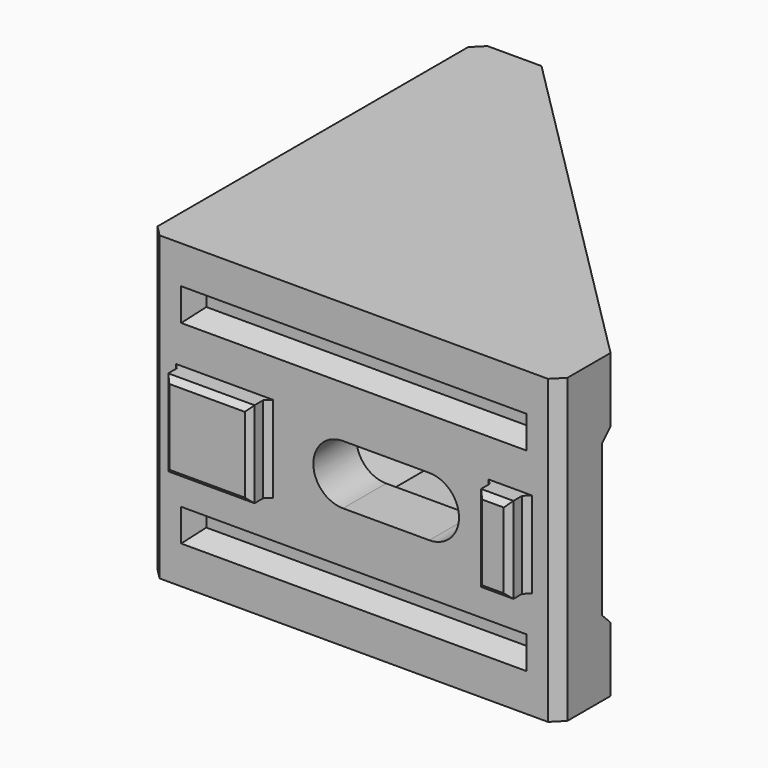
from build123d import *

# Parameters (mm, degrees)
F1_DEPTH  = 28
F2_W      = 33
F2_H      = 22
F3_DEPTH  = 33
F6_DEPTH  = 25
F7_DEPTH  = 25
F4_W      = 8
F4_H      = 8
F4_W_2    = 3
F8_DEPTH  = 2
F5_W      = 32
F5_H      = 3
F9_DEPTH  = 2
F9_TAPER  = 20
F5_W_2    = 3
F5_H_2    = 8
F5_W_3    = 8
F10_DEPTH = 2
F4_W_3    = 32
F4_H_2    = 3
F11_DEPTH = 2
F11_TAPER = 20
F12_SIZE  = 1
F13_SIZE  = 0.5
F14_SIZE  = 4


with BuildPart() as f1:
    # F0 (on Top) → F1 (new body)
    with BuildSketch(Plane.XY):
        Polygon((-19, -19), (19, -19), (19, -13), (-13, 19), (-19, 19), align=None)
    extrude(amount=F1_DEPTH)

    # F2 (on face) → F3 (cut, through all)
    with BuildSketch(Plane.YZ.offset(19)):
        with Locations((2.5, 14)):
            Rectangle(F2_W, F2_H)
    extrude(amount=-F3_DEPTH, mode=Mode.SUBTRACT)

    # F4 (on face) → F6 (cut)
    with BuildSketch(Plane.XZ.offset(19)):
        with BuildLine():
            Line((-1, 11.25), (7, 11.25))
            ThreePointArc((7, 11.25), (9.75, 14), (7, 16.75))
            Line((7, 16.75), (-1, 16.75))
            ThreePointArc((-1, 16.75), (-3.75, 14), (-1, 11.25))
        make_face()
    extrude(amount=-F6_DEPTH, mode=Mode.SUBTRACT)

    # F5 (on face) → F7 (cut)
    with BuildSketch(Plane(origin=(-19, 0, 0), x_dir=(0, -1, 0), z_dir=(-1, 0, 0))):
        with BuildLine():
            Line((-7, 11.25), (1, 11.25))
            ThreePointArc((1, 11.25), (3.75, 14), (1, 16.75))
            Line((1, 16.75), (-7, 16.75))
            ThreePointArc((-7, 16.75), (-9.75, 14), (-7, 11.25))
        make_face()
    extrude(amount=-F7_DEPTH, mode=Mode.SUBTRACT)

    # F4 (on face) → F8 (join)
    with BuildSketch(Plane.XZ.offset(19)):
        with Locations((-12, 14)):
            Rectangle(F4_W, F4_H)
        with Locations((14.5, 14)):
            Rectangle(F4_W_2, F4_H)
    extrude(amount=F8_DEPTH)

    # F5 (on face) → F9 (cut)
    with BuildSketch(Plane(origin=(-19, 0, 0), x_dir=(0, -1, 0), z_dir=(-1, 0, 0))):
        with Locations((0, 23)):
            Rectangle(F5_W, F5_H)
        with Locations((0, 5)):
            Rectangle(F5_W, F5_H)
    extrude(amount=-F9_DEPTH, taper=F9_TAPER, mode=Mode.SUBTRACT)

    # F5 (on face) → F10 (join)
    with BuildSketch(Plane(origin=(-19, 0, 0), x_dir=(0, -1, 0), z_dir=(-1, 0, 0))):
        with Locations((-14.5, 14)):
            Rectangle(F5_W_2, F5_H_2)
        with Locations((12, 14)):
            Rectangle(F5_W_3, F5_H_2)
    extrude(amount=F10_DEPTH)

    # F4 (on face) → F11 (cut)
    with BuildSketch(Plane.XZ.offset(19)):
        with Locations((0, 23)):
            Rectangle(F4_W_3, F4_H_2)
        with Locations((0, 5)):
            Rectangle(F4_W_3, F4_H_2)
    extrude(amount=-F11_DEPTH, taper=F11_TAPER, mode=Mode.SUBTRACT)

    # F12
    f12_edges = [f1.edges().sort_by_distance(p)[0] for p in [
        (-19, -19, 14),
        (19, -19, 14),
        (-19, 19, 14),
    ]]
    chamfer(f12_edges, length=F12_SIZE)

    # F13
    f13_edges = [f1.edges().sort_by_distance(p)[0] for p in [
        (-21, 14.5, 10),
        (-21, 13, 14),
        (-21, 14.5, 18),
        (-21, 16, 14),
        (-21, -12, 10),
        (-21, -16, 14),
        (-21, -12, 18),
        (-21, -8, 14),
        (-12, -21, 10),
        (-8, -21, 14),
        (-12, -21, 18),
        (-16, -21, 14),
        (14.5, -21, 10),
        (16, -21, 14),
        (14.5, -21, 18),
        (13, -21, 14),
        (-19, 13, 14),
        (-19, -16, 14),
        (-16, -19, 14),
        (13, -19, 14),
        (-19, -8, 14),
        (-19, 16, 14),
        (16, -19, 14),
        (-8, -19, 14),
    ]]
    chamfer(f13_edges, length=F13_SIZE)

    # F14
    f14_edges = [f1.edges().sort_by_distance(p)[0] for p in [
        (-14, 2.5, 3),
        (2.5, -14, 3),
        (-14, 2.5, 25),
        (2.5, -14, 25),
        (-14, -14, 14),
    ]]
    chamfer(f14_edges, length=F14_SIZE)


solid = f1.part
